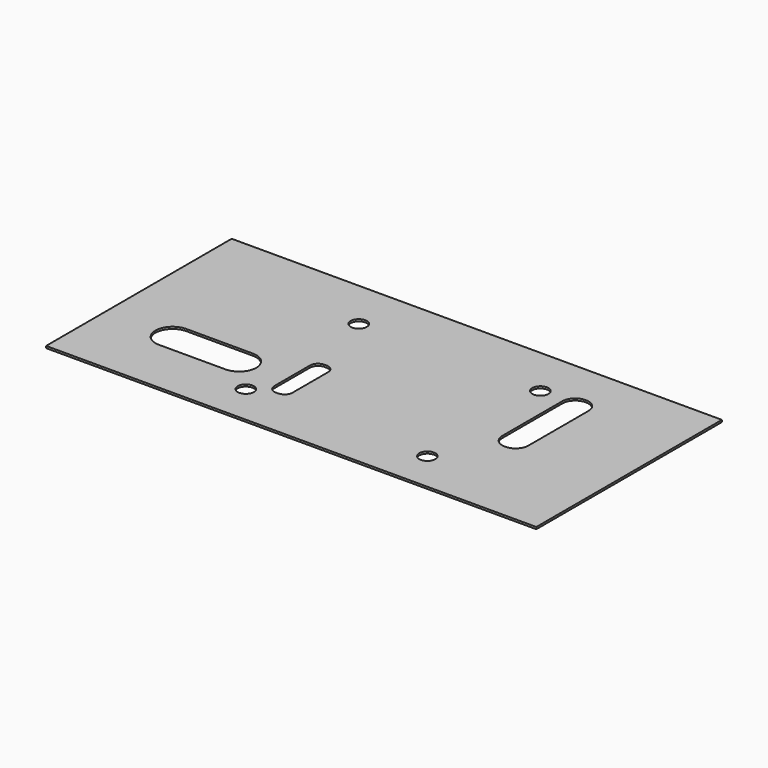
from build123d import *

# Parameters (mm, degrees)
F0_W     = 243
F0_H     = 115
F0_R     = 4
F1_DEPTH = 1


with BuildPart() as f1:
    # F0 (on Top) → F1 (new body)
    with BuildSketch(Plane.XY):
        with Locations((-63.5, 58.356044)):
            Rectangle(F0_W, F0_H)
        with BuildLine():
            ThreePointArc((-160, 37.356044), (-157.510408, 43.366451), (-151.5, 45.856044))
            Line((-151.5, 45.856044), (-118.5, 45.856044))
            ThreePointArc((-118.5, 45.856044), (-112.489592, 43.366451), (-110, 37.356044))
            ThreePointArc((-110, 37.356044), (-112.489592, 31.345636), (-118.5, 28.856044))
            Line((-118.5, 28.856044), (-151.5, 28.856044))
            ThreePointArc((-151.5, 28.856044), (-157.510408, 31.345636), (-160, 37.356044))
        make_face(mode=Mode.SUBTRACT)
        with Locations((-102, 20.856044)):
            Circle(F0_R, mode=Mode.SUBTRACT)
        with BuildLine():
            ThreePointArc((-95, 51.856044), (-93.828427, 54.684471), (-91, 55.856044))
            Line((-91, 55.856044), (-90, 55.856044))
            ThreePointArc((-90, 55.856044), (-87.171573, 54.684471), (-86, 51.856044))
            Line((-86, 51.856044), (-86, 29.856044))
            ThreePointArc((-86, 29.856044), (-87.171573, 27.027617), (-90, 25.856044))
            Line((-90, 25.856044), (-91, 25.856044))
            ThreePointArc((-91, 25.856044), (-93.828427, 27.027617), (-95, 29.856044))
            Line((-95, 29.856044), (-95, 51.856044))
        make_face(mode=Mode.SUBTRACT)
        with Locations((-102, 90.856044)):
            Circle(F0_R, mode=Mode.SUBTRACT)
        with Locations((-12, 20.856044)):
            Circle(F0_R, mode=Mode.SUBTRACT)
        with Locations((-12, 90.856044)):
            Circle(F0_R, mode=Mode.SUBTRACT)
        with BuildLine():
            Line((6.4, 95.856044), (6.6, 95.856044))
            ThreePointArc((6.6, 95.856044), (11.125483, 93.981527), (13, 89.456044))
            Line((13, 89.456044), (13, 52.256044))
            ThreePointArc((13, 52.256044), (11.125483, 47.73056), (6.6, 45.856044))
            Line((6.6, 45.856044), (6.4, 45.856044))
            ThreePointArc((6.4, 45.856044), (1.874517, 47.73056), (0, 52.256044))
            Line((0, 52.256044), (0, 89.456044))
            ThreePointArc((0, 89.456044), (1.874517, 93.981527), (6.4, 95.856044))
        make_face(mode=Mode.SUBTRACT)
    extrude(amount=F1_DEPTH)


solid = f1.part
